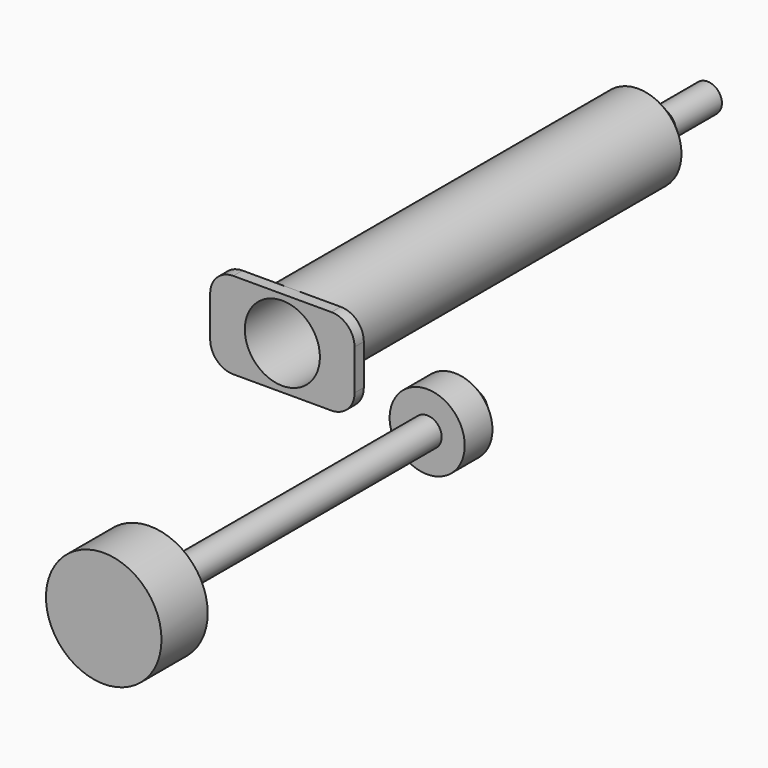
from build123d import *

# Parameters (mm, degrees)
F0_R      = 9.525
F1_DEPTH  = 101.6
F2_SIZE   = 6.35
F3_DEPTH  = 12.7
F4_T      = -1.27
F5_R      = 8.255
F6_DEPTH  = 2.54
F7_R      = 5.08
F8_R      = 8.255
F9_DEPTH  = 12.7
F10_R     = 3.175
F11_DEPTH = 76.2
F12_R     = 12.7
F12_R_2   = 3.175
F13_DEPTH = 12.7
F14_SIZE  = 5.08


with BuildPart() as f1:
    # F0 (on Front) → F1 (new body)
    with BuildSketch(Plane.XZ):
        Circle(F0_R)
    extrude(amount=-F1_DEPTH)

    # F2
    f2_edges = [f1.edges().sort_by_distance(p)[0] for p in [
        (-9.525, 101.6, 0),
    ]]
    chamfer(f2_edges, length=F2_SIZE)

    # F3 (add): a face of the model
    f3_faces = [f1.faces().sort_by_distance(p)[0] for p in [
        (0, 101.6, 0),
    ]]
    extrude(f3_faces, amount=F3_DEPTH)

    # F4
    f4_openings = [f1.faces().sort_by_distance(p)[0] for p in [
        (0, 0, 0),
    ]]
    offset(amount=F4_T, openings=f4_openings, kind=Kind.INTERSECTION)

    # F5 (on face) → F6 (join)
    with BuildSketch(Plane.XZ):
        with BuildLine():
            Line((0, 9.525), (-15.875, 9.525))
            Line((-15.875, 9.525), (-15.875, -9.525))
            Line((-15.875, -9.525), (0, -9.525))
            ThreePointArc((0, -9.525), (-9.525, 0), (0, 9.525))
        make_face()
        with BuildLine():
            Line((15.875, 9.525), (0, 9.525))
            ThreePointArc((0, 9.525), (6.7351920908, 6.7351920908), (9.525, 0))
            ThreePointArc((9.525, 0), (6.7351920908, -6.7351920908), (0, -9.525))
            Line((0, -9.525), (15.875, -9.525))
            Line((15.875, -9.525), (15.875, 9.525))
        make_face()
        with BuildLine():
            ThreePointArc((9.525, 0), (6.7351920908, 6.7351920908), (0, 9.525))
            ThreePointArc((0, 9.525), (-9.525, 0), (0, -9.525))
            ThreePointArc((0, -9.525), (6.7351920908, -6.7351920908), (9.525, 0))
        make_face()
        Circle(F5_R, mode=Mode.SUBTRACT)
    extrude(amount=F6_DEPTH)

    # F7
    f7_edges = [f1.edges().sort_by_distance(p)[0] for p in [
        (-15.875, -1.27, 9.525),
        (15.875, -1.27, 9.525),
        (15.875, -1.27, -9.525),
        (-15.875, -1.27, -9.525),
    ]]
    fillet(f7_edges, radius=F7_R)


with BuildPart() as f9:
    # F8 (on Front) → F9 (new body)
    with BuildSketch(Plane.XZ):
        with Locations((39.9721178575, 0)):
            Circle(F8_R)
    extrude(amount=F9_DEPTH)

    # F10 (on face) → F11 (join)
    with BuildSketch(Plane.XZ.offset(12.7)):
        with Locations((39.9721178575, 0)):
            Circle(F10_R)
    extrude(amount=F11_DEPTH)

    # F12 (on face) → F13 (join)
    with BuildSketch(Plane.XZ.offset(88.9)):
        with Locations((39.9721178575, 0)):
            Circle(F12_R)
        with Locations((39.9721178575, 0)):
            Circle(F12_R_2, mode=Mode.SUBTRACT)
        with Locations((39.9721178575, 0)):
            Circle(F12_R_2)
    extrude(amount=F13_DEPTH)

    # F14
    f14_edges = [f9.edges().sort_by_distance(p)[0] for p in [
        (31.717118, 0, 0),
    ]]
    chamfer(f14_edges, length=F14_SIZE)


solid = Compound([f1.part, f9.part])
